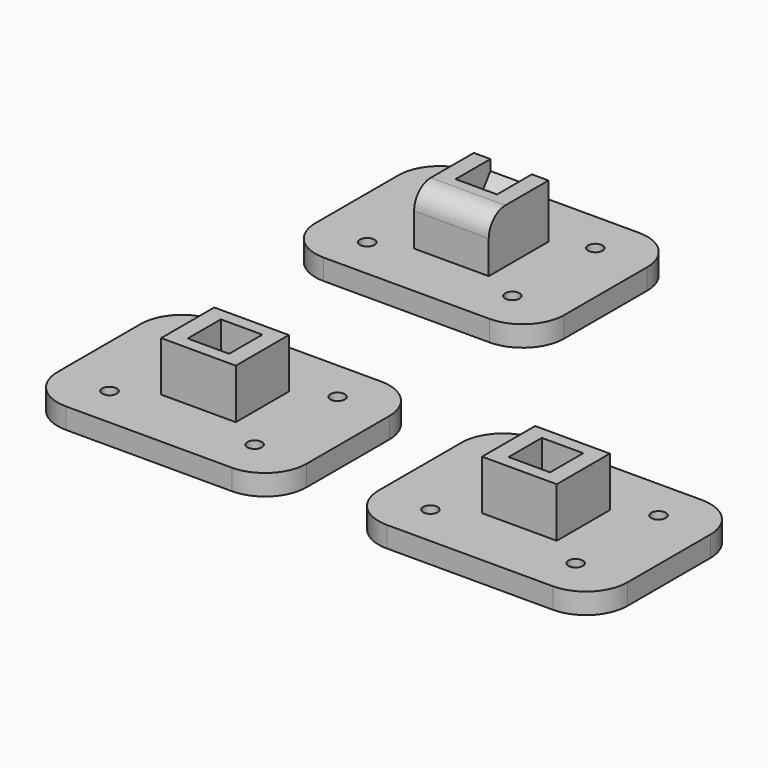
from build123d import *

# Parameters (mm, degrees)
F1_DEPTH       = 5
F2_R           = 1.75
F3_DEPTH       = 25
F4_W           = 18
F4_H           = 16
F4_W_2         = 10
F4_H_2         = 10
F5_DEPTH       = 12
F8_DEPTH       = 12
F9_W           = 18
F9_H           = 18
F10_DEPTH      = 13
F12_W          = 10
F12_H          = 10
F13_DEPTH      = 25
F13_DEPTH_BACK = 6
F14_R          = 5


with BuildPart() as f1:
    # F0 (on Top) → F1 (new body)
    with BuildSketch(Plane.XY):
        with BuildLine():
            ThreePointArc((30, 12.5), (27.0710678119, 19.5710678119), (20, 22.5))
            Line((20, 22.5), (-20, 22.5))
            ThreePointArc((-20, 22.5), (-27.0710678119, 19.5710678119), (-30, 12.5))
            Line((-30, 12.5), (-30, -12.5))
            ThreePointArc((-30, -12.5), (-27.0710678119, -19.5710678119), (-20, -22.5))
            Line((-20, -22.5), (20, -22.5))
            ThreePointArc((20, -22.5), (27.0710678119, -19.5710678119), (30, -12.5))
            Line((30, -12.5), (30, 12.5))
        make_face()
    extrude(amount=F1_DEPTH)

    # F2 (on face) → F3 (cut)
    with BuildSketch(Plane.XY.offset(5)):
        with Locations((17.5, 12.5)):
            Circle(F2_R)
        with Locations((17.5, -12.5)):
            Circle(F2_R)
        with Locations((-17.5, -12.5)):
            Circle(F2_R)
        with Locations((-17.5, 12.5)):
            Circle(F2_R)
    extrude(amount=-F3_DEPTH, mode=Mode.SUBTRACT)

    # F4 (on face) → F5 (join)
    with BuildSketch(Plane.XY.offset(5)):
        with Locations((0, 0.4460653624)):
            Rectangle(F4_W, F4_H)
        with Locations((0, 0.4460653624)):
            Rectangle(F4_W_2, F4_H_2, mode=Mode.SUBTRACT)
    extrude(amount=F5_DEPTH)


with BuildPart() as f6_1:
    # F6: copy of F1
    add(f1.part.moved(Location((77.4, 0, 0))))


with BuildPart() as f7_1:
    # F7: copy of F1
    add(f1.part.moved(Location((0, 77.7, 0))))

    # F8 (cut): a face of the model
    f8_faces = [f7_1.faces().sort_by_distance(p)[0] for p in [
        (0, 85.9052334709, 17),
    ]]
    extrude(f8_faces, amount=-F8_DEPTH, mode=Mode.SUBTRACT)

    # F9 (on face) → F10 (join)
    with BuildSketch(Plane.XY.offset(5)):
        with Locations((0, 77.7)):
            Rectangle(F9_W, F9_H)
    extrude(amount=F10_DEPTH)

    # F12 (on 3pt) → F13 (cut, two sides)
    with BuildSketch(Plane(origin=(0, 32.0939148073, 44.4377281947), x_dir=(1, 0, 0), z_dir=(0, 0.5854905538, 0.8106792284))) as f13_sk:
        with Locations((0, 56.2393516302)):
            Rectangle(F12_W, F12_H)
    extrude(amount=F13_DEPTH, mode=Mode.SUBTRACT)
    extrude(f13_sk.sketch, amount=-F13_DEPTH_BACK, mode=Mode.SUBTRACT)

    # F14
    f14_edges = [f7_1.edges().sort_by_distance(p)[0] for p in [
        (0, 68.7, 18),
    ]]
    fillet(f14_edges, radius=F14_R)


solid = Compound([f1.part, f6_1.part, f7_1.part])
